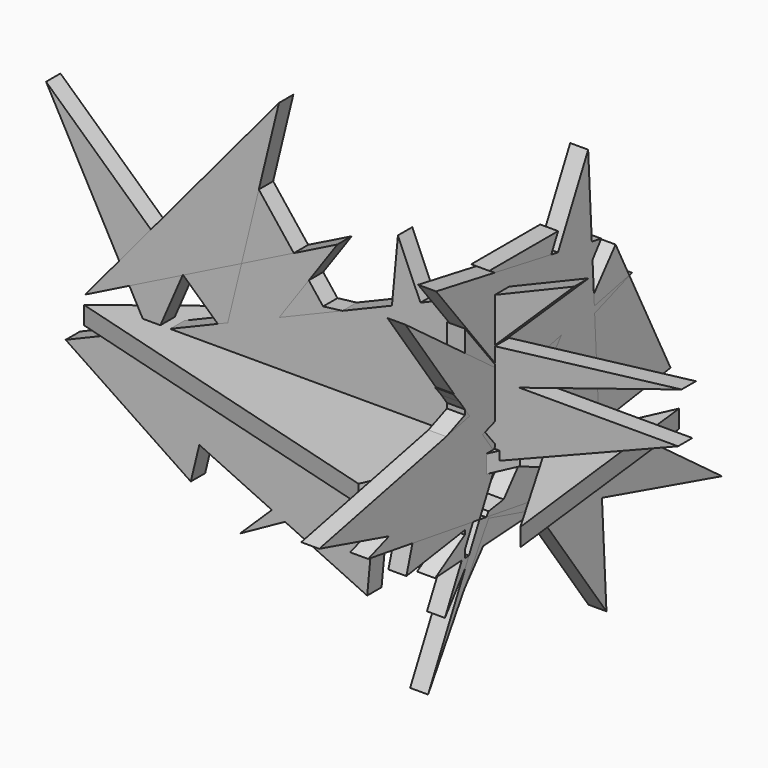
from build123d import *

# Parameters (mm, degrees)
F3_DEPTH = 4.572
F4_DEPTH = 4.572
F5_DEPTH = 4.572
F7_DEPTH = 4.572
F9_DEPTH = 4.572


with BuildPart() as f3:
    # F0 (on Front) → F3 (new body)
    with BuildSketch(Plane.XZ):
        Polygon((-82.5575739145, 0), (-74.8516700621, 17.7828554518), (-109.6728146076, 49.6860258281), align=None)
    extrude(amount=F3_DEPTH)


with BuildPart() as f3b:
    # F0 (on Front) → F3, piece 2 (new body)
    with BuildSketch(Plane.XZ):
        Polygon((-21.6666485413, 0), (0, 0), (51.2008480728, 20.2985610813), (10.7693464256, 20.2985610813), (-28.0068135198, 8.0791818403), align=None)
        Polygon((-7.8770499676, -17.571888864), (-21.6666485413, 0), (-53.6447482374, 0), (-92.1009257436, -12.1185444295), align=None)
        Polygon((-53.6447482374, 0), (-21.6666485413, 0), (-28.0068135198, 8.0791818403), align=None)
        Polygon((-55.4423332214, 0), (-53.6447482374, 0), (-28.0068135198, 8.0791818403), (-37.5960122597, 20.2985610813), (-55.4423332214, 20.2985610813), (-39.1451364363, 22.2725879337), (-60.8956776559, 49.9889925122), (-74.8516700621, 17.7828554518), align=None)
        Polygon((-37.5960122597, 20.2985610813), (-28.0068135198, 8.0791818403), (10.7693464256, 20.2985610813), align=None)
        Polygon((-37.5960122597, 20.2985610813), (10.7693464256, 20.2985610813), (52.1097369492, 33.3259962499), (-39.1451364363, 22.2725879337), align=None)
        Polygon((-55.4423332214, 20.2985610813), (-37.5960122597, 20.2985610813), (-39.1451364363, 22.2725879337), align=None)
    extrude(amount=F3_DEPTH)


with BuildPart() as f4:
    # F1 (on Top) → F4 (new body)
    with BuildSketch(Plane.XY):
        Polygon((-30.2264653146, -24.8868316412), (-29.1643092862, -1.3069657687), (-44.8794588447, -4.6517443843), (-28.5806321541, 11.6506676864), (-28.0274361012, 23.9316211227), (-54.8957499852, 8.300016208), (-56.7414090037, 24.6542450041), (-97.9093462229, -7.2102034464), (-7.2003318928, -33.2599692047), (7.6604056604, -0.4961419795), align=None)
        Polygon((-83.9541107416, -8.6057269946), (-54.8957499852, 8.300016208), (-52.8296263813, -10.0077306732), align=None, mode=Mode.SUBTRACT)
        Polygon((0.1605810986, 4.9344807985), (0, 0), (-4.1828936972, 4.0100249694), (-29.1643092862, -1.3069657687), (-30.2264653146, -24.8868316412), (7.6604056604, -0.4961419795), (10.3213577254, 5.370523346), (9.427549079, 6.9068423225), align=None)
        Polygon((22.3382469267, 31.8644493818), (11.1881518136, 7.28156522), (23.9663552493, 10.0012505427), (12.0794068127, 2.3487085702), (29.5484494418, -27.6778768748), align=None)
        Polygon((-29.1643092862, -1.3069657687), (-4.1828936972, 4.0100249694), (-20.5409885059, 19.6920798778), (-28.5806321541, 11.6506676864), align=None)
        Polygon((-52.8296263813, -10.0077306732), (-54.8957499852, 8.300016208), (-83.9541107416, -8.6057269946), align=None)
        Polygon((-26.1205296729, 25.0410323059), (-20.5409885059, 19.6920798778), (0, 40.2375869453), align=None)
        Polygon((0.7122633979, 21.887071963), (0.1605810986, 4.9344807985), (9.427549079, 6.9068423225), align=None)
        Polygon((-28.5806321541, 11.6506676864), (-20.5409885059, 19.6920798778), (-26.1205296729, 25.0410323059), (-28.0274361012, 23.9316211227), align=None)
        Polygon((23.9663552493, 10.0012505427), (11.1881518136, 7.28156522), (10.3213577254, 5.370523346), (12.0794068127, 2.3487085702), align=None)
        Polygon((-4.1828936972, 4.0100249694), (0, 0), (0.1605810986, 4.9344807985), align=None)
        Polygon((12.0794068127, 2.3487085702), (10.3213577254, 5.370523346), (7.6604056604, -0.4961419795), align=None)
        Polygon((-28.0274361012, 23.9316211227), (-26.1205296729, 25.0410323059), (-27.9005933553, 26.7475303262), align=None)
        Polygon((11.1881518136, 7.28156522), (9.427549079, 6.9068423225), (10.3213577254, 5.370523346), align=None)
    extrude(amount=F4_DEPTH)


with BuildPart() as f5:
    # F2 (on Right) → F5 (new body)
    with BuildSketch(Plane.YZ):
        Polygon((-11.6709794468, -9.2863757221), (-4.3327892504, 5.3900042912), (-13.1785160436, 16.3941179508), (-14.112967217, 16.0093439428), (-14.112967217, -9.7413167059), (-11.8647352483, -9.4066657912), align=None)
        Polygon((-14.112967217, 16.0093439428), (-13.1785160436, 16.3941179508), (-14.112967217, 17.55657833), align=None)
        Polygon((-14.112967217, 17.55657833), (-13.1785160436, 16.3941179508), (-2.4156556784, 20.8258839304), (-3.5277008119, 22.2092717886), (-14.112967217, 22.2092717886), align=None)
        Polygon((4.0768447157, 22.2092717886), (1.1606701048, 16.3769227176), (9.6697870104, 5.7915528817), (23.3766396491, 22.2092717886), align=None)
        Polygon((-2.4156556784, 20.8258839304), (1.1606701048, 16.3769227176), (4.0768447157, 22.2092717886), (0.944000589, 22.2092717886), align=None)
        Polygon((10.6504993847, 4.5715434143), (6.4998476512, 1.9946802718), (-1.7636361041, -7.903110057), (18.2800142598, -4.9195985592), align=None)
        Polygon((-1.7636361041, -7.903110057), (-6.5624073064, -8.6174105361), (-12.1507356053, -15.9557113932), (-8.2791860566, -15.7072698058), align=None)
        Polygon((-17.8530644625, 22.2092717886), (-14.112967217, 17.55657833), (-14.112967217, 22.2092717886), align=None)
        Polygon((-14.112967217, -9.7413167059), (-14.112967217, 16.0093439428), (-25.6851743907, 11.2443175167), (-32.7340736985, -12.5130815431), align=None)
        Polygon((-3.5277008119, 22.2092717886), (-2.4156556784, 20.8258839304), (0.944000589, 22.2092717886), align=None)
        Polygon((23.3766396491, 22.2092717886), (9.6697870104, 5.7915528817), (10.6504993847, 4.5715434143), (39.0602611005, 22.2092717886), align=None)
        Polygon((0.944000589, 22.2092717886), (4.0768447157, 22.2092717886), (4.8890635775, 23.8337094703), align=None)
        Polygon((-11.720380856, -9.385178538), (-11.8647352483, -9.4066657912), (-14.112967217, -10.802443242), (-14.112967217, -14.1703511364), align=None)
        Polygon((-14.112967217, -10.802443242), (-11.8647352483, -9.4066657912), (-14.112967217, -9.7413167059), align=None)
        Polygon((39.0602611005, 22.2092717886), (10.6504993847, 4.5715434143), (18.2800142598, -4.9195985592), (51.3305701315, 0), (33.8388569653, 34.7406491637), (23.3766396491, 22.2092717886), align=None)
        Polygon((18.2800142598, -4.9195985592), (-1.7636361041, -7.903110057), (-8.2791860566, -15.7072698058), (25.2235364169, -13.5573633015), align=None)
        Polygon((-14.112967217, -18.5324114632), (-12.1507356053, -15.9557113932), (-14.112967217, -16.0816299513), align=None)
        Polygon((-8.2791860566, -15.7072698058), (-12.1507356053, -15.9557113932), (-14.112967217, -18.5324114632), (-14.112967217, -22.6948242635), align=None)
        Polygon((-14.112967217, 35.3773785324), (-14.112967217, 22.2092717886), (-3.5277008119, 22.2092717886), align=None)
        Polygon((-14.112967217, -14.1703511364), (-14.112967217, -10.802443242), (-23.5966108739, -16.6902057827), (-15.1002852928, -16.1449872368), align=None)
        Polygon((-14.112967217, -16.0816299513), (-14.112967217, -14.1703511364), (-15.1002852928, -16.1449872368), align=None)
        Polygon((-14.112967217, -18.5324114632), (-14.112967217, -16.0816299513), (-15.1002852928, -16.1449872368), (-20.4637665302, -26.8719494343), align=None)
    extrude(amount=F5_DEPTH)


with BuildPart() as f5b:
    # F2 (on Right) → F5, piece 2 (new body)
    with BuildSketch(Plane.YZ):
        Polygon((-6.3659697771, 45.1834574342), (10.3425312173, 34.7406444679), (15.5639378354, 45.1834574342), align=None)
    extrude(amount=F5_DEPTH)


with BuildPart() as f5c:
    # F2 (on Right) → F5, piece 3 (new body)
    with BuildSketch(Plane.YZ):
        Polygon((10.3425312173, 34.7406444679), (4.8890635775, 23.8337094703), (18.6967793852, 29.5192394406), align=None)
    extrude(amount=F5_DEPTH)


with BuildPart() as f7:
    # F6 (on Front) → F7 (new body)
    with BuildSketch(Plane.XZ):
        Polygon((-99.728859961, 5.2214069292), (-59.9105844404, 25.1305452669), (-50.386570394, 64.2232969403), align=None)
    extrude(amount=F7_DEPTH)


with BuildPart() as f7b:
    # F6 (on Front) → F7, piece 2 (new body)
    with BuildSketch(Plane.XZ):
        Polygon((-50.3258952086, 16.1611531024), (-35.5055630207, 37.3330563307), (-59.9105844404, 25.1305452669), (-63.4279038249, 10.6931775161), align=None)
        Polygon((-21.6301538046, 28.1369972667), (-50.3258952086, 16.1611531024), (-68.3788705082, -9.6288117365), (-70.6602708853, -18.9931635715), (-52.1977105079, -27.5950381993), (-24.3134150211, -0.3950190076), align=None)
        Polygon((-68.3788705082, -9.6288117365), (-50.3258952086, 16.1611531024), (-63.4279038249, 10.6931775161), align=None)
        Polygon((-70.6602708853, -18.9931635715), (-68.3788705082, -9.6288117365), (-73.8829001784, -17.4917113036), align=None)
        Polygon((-73.8829001784, -17.4917113036), (-68.3788705082, -9.6288117365), (-63.4279038249, 10.6931775161), (-104.6891957521, -6.5267574973), (-72.8386193514, -27.9345232993), (-70.6602708853, -18.9931635715), align=None)
        Polygon((-14.3833906449, 31.1613521727), (-21.6301538046, 28.1369972667), (-24.3134150211, -0.3950190076), (-7.7301989516, 15.7812475065), align=None)
        Polygon((-20.1024152339, 44.3819537759), (-21.6301538046, 28.1369972667), (-14.3833906449, 31.1613521727), align=None)
        Polygon((-7.7301989516, 15.7812475065), (-24.3134150211, -0.3950190076), (-25.818085807, -16.3946880244), (0, -2.0885621198), align=None)
        Polygon((-25.818085807, -16.3946880244), (-24.3134150211, -0.3950190076), (-52.1977105079, -27.5950381993), (-48.8478487995, -29.1557692055), align=None)
        Polygon((24.8016808182, 47.5147999823), (-14.3833906449, 31.1613521727), (-7.7301989516, 15.7812475065), align=None)
        Polygon((-48.8478487995, -29.1557692055), (-52.1977105079, -27.5950381993), (-60.3072419763, -35.5055630207), align=None)
        Polygon((-27.9345232993, -38.8994775712), (-25.818085807, -16.3946880244), (-48.8478487995, -29.1557692055), align=None)
    extrude(amount=F7_DEPTH)


with BuildPart() as f9:
    # F8 (on Right) → F9 (new body)
    with BuildSketch(Plane.YZ):
        Polygon((9.5215268071, 12.3175298318), (7.054986864, 9.1266887045), (26.0497685522, -14.8855810985), (6.4986714811, -11.8086873813), (8.2883964257, -14.3338265797), (29.5043549522, -20.2635137998), (28.4892037347, -1.7877637871), align=None)
        Polygon((13.1573853495, 17.0210607851), (9.5215268071, 12.3175298318), (28.4892037347, -1.7877637871), (27.1804219123, 22.0320626132), align=None)
        Polygon((16.5784495208, 21.4467228498), (13.1573853495, 17.0210607851), (27.1804219123, 22.0320626132), (27.0884537669, 23.7058826658), align=None)
        Polygon((67.682877183, -30.934099108), (28.4892037347, -1.7877637871), (29.5043549522, -20.2635137998), align=None)
        Polygon((1.7058211505, 12.9289507148), (2.6151525232, 14.7393091506), (0.1096106938, 17.906692035), (-12.6227065571, 15.1698387641), (-8.4598024861, 9.2963595568), align=None)
        Polygon((8.2883964257, -14.3338265797), (6.4986714811, -11.8086873813), (-6.2995872124, -9.7945353558), (-6.5399120622, -10.1894354024), align=None)
        Polygon((4.7019407708, 18.8938284175), (16.5784495208, 21.4467228498), (26.5068738488, 34.2906359448), (26.2777281101, 38.4610879048), (15.5115105085, 40.4142513898), align=None)
        Polygon((26.5068738488, 34.2906359448), (16.5784495208, 21.4467228498), (27.0884537669, 23.7058826658), align=None)
        Polygon((27.0884537669, 23.7058826658), (27.1804219123, 22.0320626132), (39.074651897, 26.2823551893), align=None)
        Polygon((30.934099108, -46.2848544121), (29.5043549522, -20.2635137998), (8.2883964257, -14.3338265797), align=None)
        Polygon((-12.6227065571, 15.1698387641), (0.1096106938, 17.906692035), (-2.5993124675, 21.331179607), (-33.0273844302, 43.9589843154), align=None)
        Polygon((-2.5993124675, 21.331179607), (0.1096106938, 17.906692035), (1.5805018972, 18.222864914), align=None)
        Polygon((-3.5782886569, 2.4089873075), (-8.4598024861, 9.2963595568), (-38.2151932543, -1.3364528778), (-10.0834764605, -9.1990380795), (-9.4583415658, -9.2974199567), align=None)
        Polygon((-38.2151932543, -1.3364528778), (-8.4598024861, 9.2963595568), (-12.6227065571, 15.1698387641), (-60.4726746678, 4.8843314871), align=None)
        Polygon((-6.5399120622, -10.1894354024), (-6.2995872124, -9.7945353558), (-9.4583415658, -9.2974199567), (-9.4919654137, -9.3643605885), align=None)
        Polygon((26.2777281101, 38.4610879048), (26.5068738488, 34.2906359448), (29.3059889227, 37.9117131233), align=None)
        Polygon((1.5805018972, 18.222864914), (4.7019407708, 18.8938284175), (15.5115105085, 40.4142513898), (-23.2587214559, 47.4477894604), (-2.5993124675, 21.331179607), align=None)
        Polygon((-10.0834764605, -9.1990380795), (-38.2151932543, -1.3364528778), (-44.8893345892, -3.7213952746), align=None)
        Polygon((-9.4919654137, -9.3643605885), (-9.4583415658, -9.2974199567), (-10.0834764605, -9.1990380795), align=None)
        Polygon((-25.8171781898, -41.8656989932), (-6.5399120622, -10.1894354024), (-9.4919654137, -9.3643605885), align=None)
        Polygon((15.5115105085, 40.4142513898), (26.2777281101, 38.4610879048), (25.1194182783, 59.542324394), align=None)
    extrude(amount=F9_DEPTH)


solid = Compound([f3.part, f3b.part, f4.part, f5.part, f5b.part, f5c.part, f7.part, f7b.part, f9.part])
